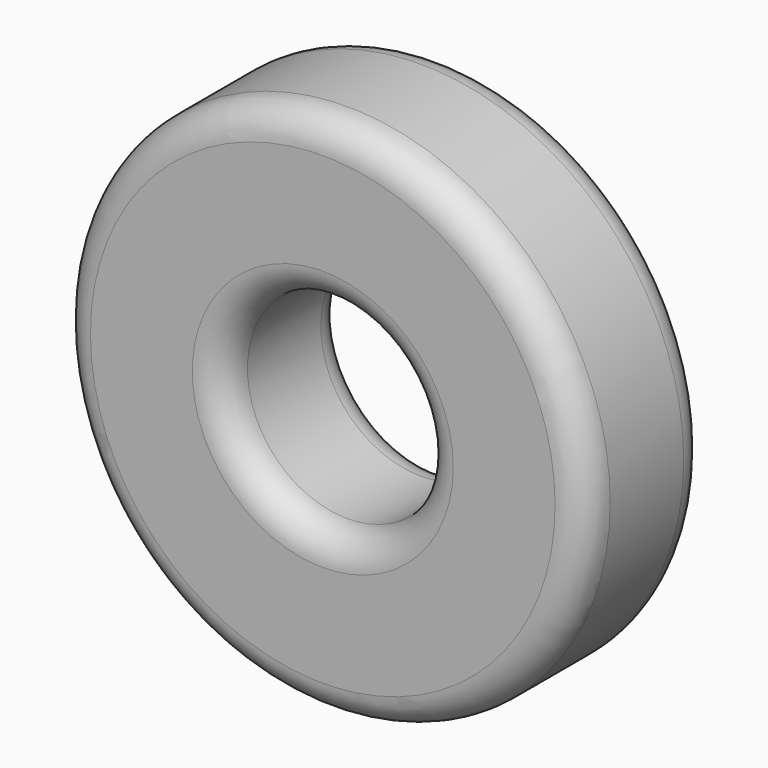
from build123d import *

# Parameters (mm, degrees)
F0_R     = 43.635163
F0_R_2   = 16.575606
F1_DEPTH = 25.4
F2_R     = 5.08


with BuildPart() as f1:
    # F0 (on Front) → F1 (new body)
    with BuildSketch(Plane.XZ):
        with Locations((-89.95191, 22.557905)):
            Circle(F0_R)
        with Locations((-89.95191, 22.557905)):
            Circle(F0_R_2, mode=Mode.SUBTRACT)
    extrude(amount=F1_DEPTH)

    # F2
    f2_edges = [f1.edges().sort_by_distance(p)[0] for p in [
        (-133.587073, 0, 22.557905),
        (-106.527517, 0, 22.557905),
        (-133.587073, -25.4, 22.557905),
        (-106.527517, -25.4, 22.557905),
    ]]
    fillet(f2_edges, radius=F2_R)


solid = f1.part
